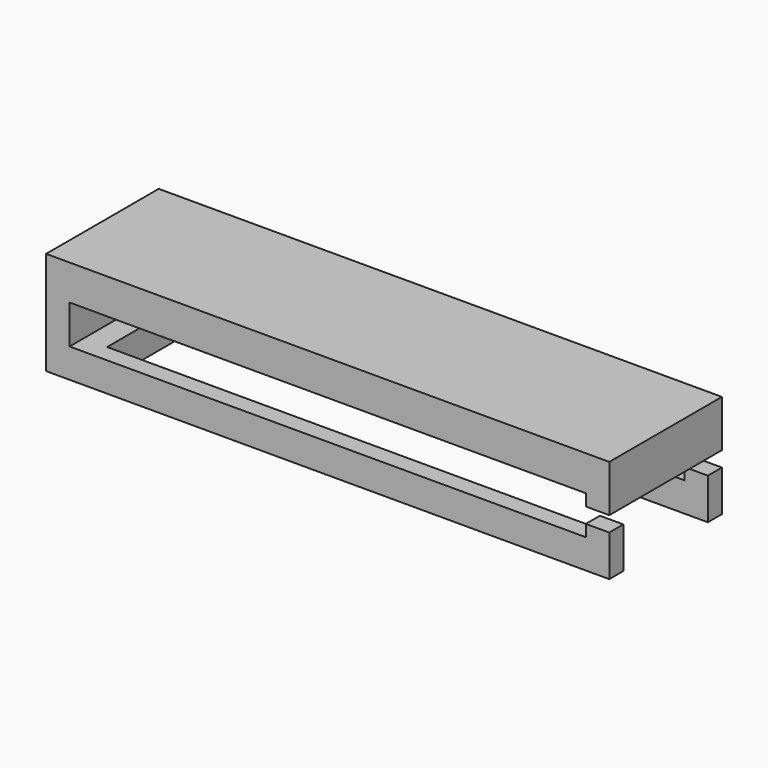
from build123d import *

# Parameters (mm, degrees)
F1_DEPTH = 12
F3_W     = 10
F3_H     = 2
F4_DEPTH = 43
F6_W     = 9
F6_H     = 4.75
F7_DEPTH = 69
F9_D     = 3.5
F9_DEPTH = 4
F9_TIP   = 1.0515060833


with BuildPart() as f1:
    # F0 (on Front) → F1 (new body)
    with BuildSketch(Plane.XZ):
        Polygon((29.6939597434, -5.2816280767), (-18.3060402566, -5.2816280767), (-18.3060402566, -14.0816280767), (29.6939597434, -14.0816280767), (29.6939597434, -10.5816280767), (27.6939597434, -10.5816280767), (27.6939597434, -11.5816280767), (-16.3060402566, -11.5816280767), (-16.3060402566, -8.2816280767), (27.6939597434, -8.2816280767), (27.6939597434, -9.2816280767), (29.6939597434, -9.2816280767), align=None)
    extrude(amount=F1_DEPTH)

    # F3 (on offset) → F4 (cut)
    with BuildSketch(Plane(origin=(27.6939597434, 0, 0), x_dir=(0, -1, 0), z_dir=(-1, 0, 0))):
        with Locations((6, -7.5316280767)):
            Rectangle(F3_W, F3_H)
    extrude(amount=F4_DEPTH, mode=Mode.SUBTRACT)

    # F6 (on offset) → F7 (cut)
    with BuildSketch(Plane.YZ.offset(54.6939597434)):
        with Locations((-6, -12.9234550223)):
            Rectangle(F6_W, F6_H)
    extrude(amount=-F7_DEPTH, mode=Mode.SUBTRACT)

    # F9
    with Locations(Plane(origin=(-18.3060402566, 0, 0), x_dir=(0, -1, 0), z_dir=(-1, 0, 0))):
        with Locations((6, -9.9316280767)):
            Hole(F9_D / 2, depth=F9_DEPTH)
            with Locations((0, 0, -(F9_DEPTH + F9_TIP / 2))):  # 118° drill point
                Cone(0, F9_D / 2, F9_TIP, mode=Mode.SUBTRACT)


solid = f1.part
